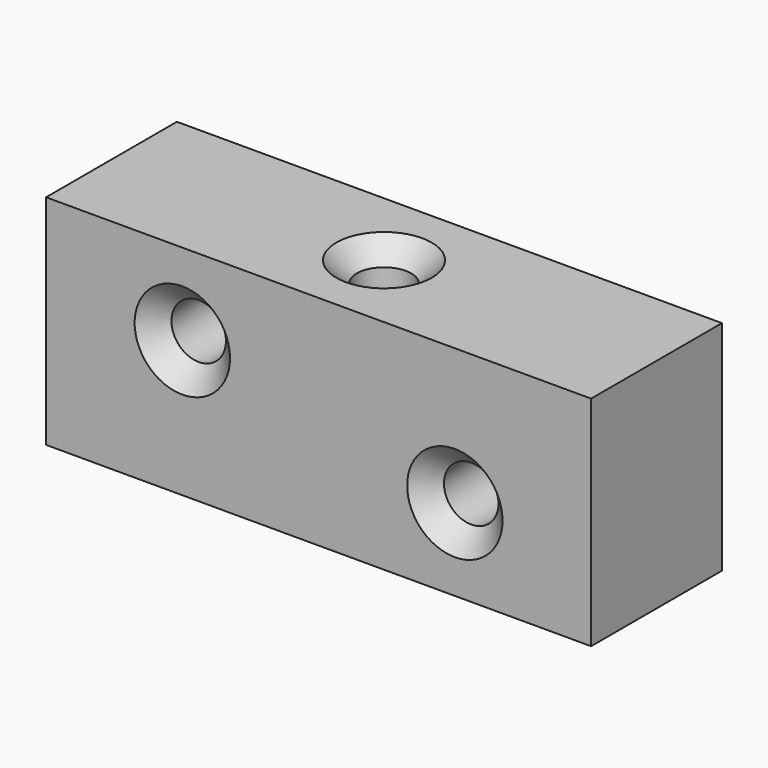
from build123d import *

# Parameters (mm, degrees)
F0_W     = 40
F0_H     = 16
F0_R     = 2
F1_DEPTH = 12
F2_R     = 2
F3_DEPTH = 16.001
F4_SIZE  = 1.5


with BuildPart() as f1:
    # F0 (on Front) → F1 (new body)
    with BuildSketch(Plane.XZ):
        Rectangle(F0_W, F0_H)
        with Locations((10, -2)):
            Circle(F0_R, mode=Mode.SUBTRACT)
        with Locations((-10, 2)):
            Circle(F0_R, mode=Mode.SUBTRACT)
    extrude(amount=-F1_DEPTH)

    # F2 (on face) → F3 (cut, through all)
    with BuildSketch(Plane.XY.offset(8)):
        with Locations((0, 6)):
            Circle(F2_R)
    extrude(amount=-F3_DEPTH, mode=Mode.SUBTRACT)

    # F4
    f4_edges = [f1.edges().sort_by_distance(p)[0] for p in [
        (-12, 12, 2),
        (8, 12, -2),
        (-12, 0, 2),
        (8, 0, -2),
        (-2, 6, 8),
        (-2, 6, -8),
    ]]
    chamfer(f4_edges, length=F4_SIZE)


solid = f1.part
